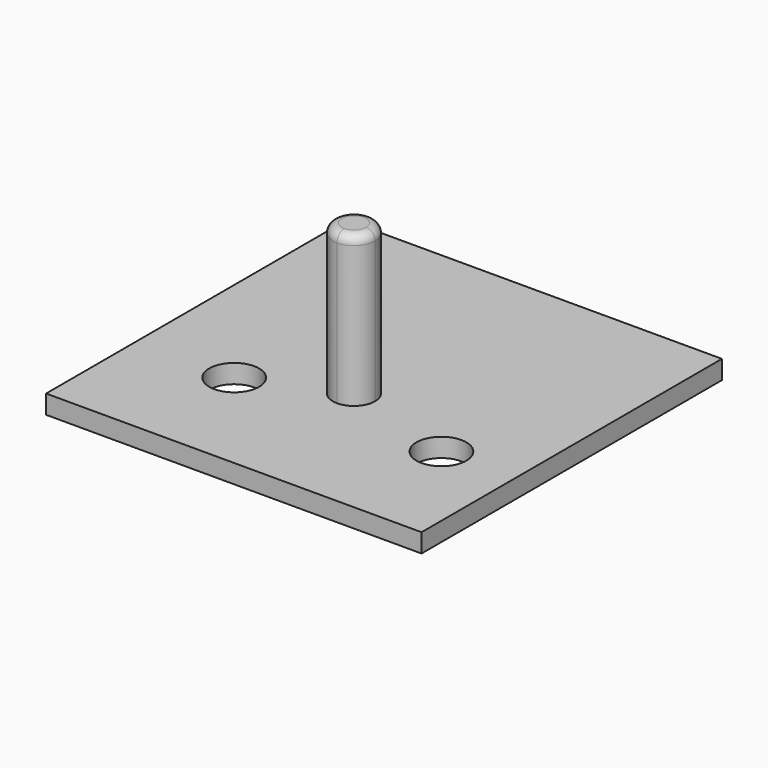
from build123d import *

# Parameters (mm, degrees)
F0_W     = 63.5
F0_H     = 63.5
F1_DEPTH = 3.175
F3_DEPTH = 25.4
F4_R     = 1.524
F6_D     = 8.4328


with BuildPart() as f1:
    # F0 (on Top) → F1 (new body)
    with BuildSketch(Plane.XY):
        with Locations((31.75, 31.75)):
            Rectangle(F0_W, F0_H)
    extrude(amount=F1_DEPTH)

    # F2 (on face) → F3 (join)
    with BuildSketch(Plane.XY.offset(3.175)):
        with BuildLine():
            ThreePointArc((31.75, 21.8313), (34.27345197, 22.87654803), (35.3187, 25.4))
            ThreePointArc((35.3187, 25.4), (29.22654803, 27.92345197), (31.75, 21.8313))
        make_face()
    extrude(amount=F3_DEPTH)

    # F4
    f4_edges = [f1.edges().sort_by_distance(p)[0] for p in [
        (31.75, 28.9687, 28.575),
    ]]
    fillet(f4_edges, radius=F4_R)

    # F6 (through all)
    with Locations(Plane.XY.offset(3.175)):
        with Locations((16.5602006018, 19.0660767257), (51.1259697378, 19.6664221585)):
            Hole(F6_D / 2)


solid = f1.part
